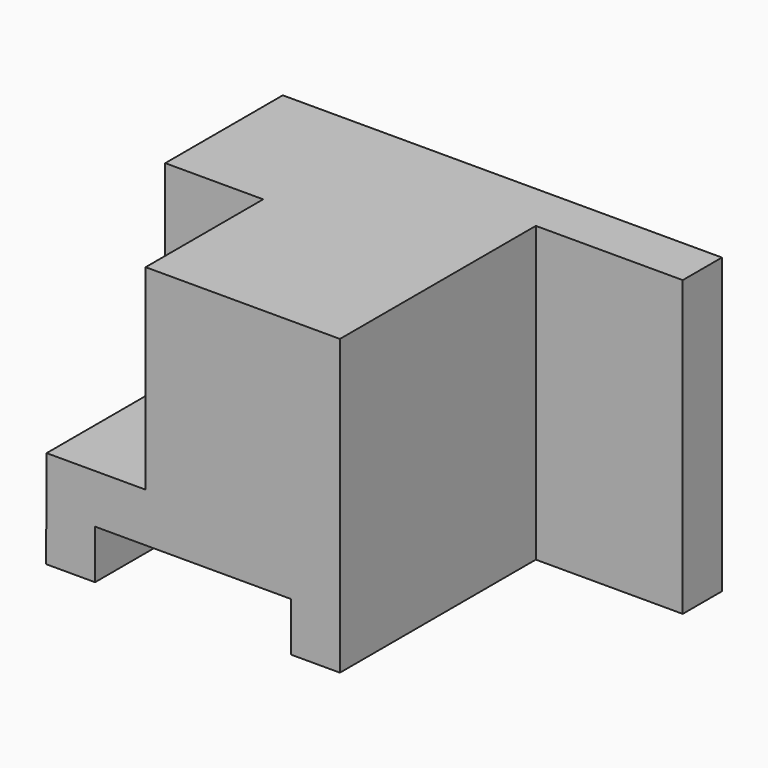
from build123d import *

# Parameters (mm, degrees)
F1_DEPTH = 60
F2_DEPTH = 30
F0_W     = 30
F0_H     = 60
F3_DEPTH = 10


with BuildPart() as f1:
    # F0 (on Front) → F1 (new body)
    with BuildSketch(Plane.XZ):
        Polygon((42.81108, -30.305127), (42.81108, 29.694873), (3.14041, 29.694873), (3.14041, -10.305127), (-17.079143, -10.305127), (-17.18892, -30.305127), (-7.18892, -30.305127), (-7.18892, -20.305127), (32.81108, -20.305127), (32.81108, -30.305127), align=None)
    extrude(amount=F1_DEPTH)

    # F0 (on Front) → F2 (join)
    with BuildSketch(Plane.XZ):
        Polygon((3.14041, -10.305127), (3.14041, 29.694873), (-16.85959, 29.694873), (-17.079143, -10.305127), align=None)
    extrude(amount=F2_DEPTH)

    # F0 (on Front) → F3 (join)
    with BuildSketch(Plane.XZ):
        with Locations((57.81108, -0.305127)):
            Rectangle(F0_W, F0_H)
    extrude(amount=F3_DEPTH)


solid = f1.part
